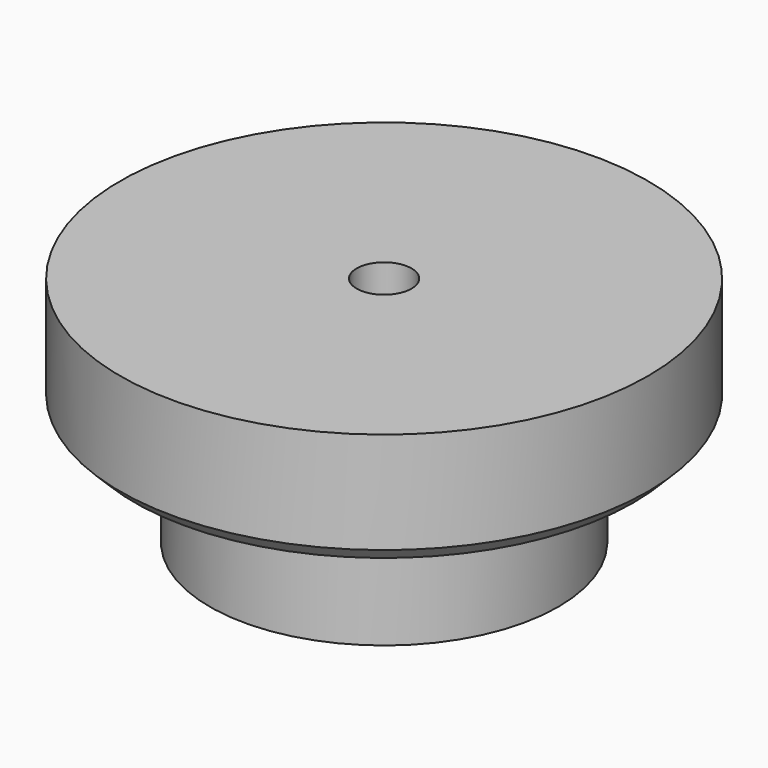
from build123d import *

# Parameters (mm, degrees)
F3_D     = 2.0574
F5_D     = 3
F5_DEPTH = 19.05
F5_TIP   = 0.9012909285
F6_SIZE  = 0.79375


with BuildPart() as f1:
    # F0 (on Front) → F1 (revolve)
    with BuildSketch(Plane.XZ):
        Polygon((14.4272, 0), (0, 0), (0, -12.7), (9.525, -12.7), (9.525, -6.35), (14.4272, -6.35), align=None)
    revolve(axis=Axis((0, 0, -6.35), (0, 0, 1)))

    # F3 (through all)
    with Locations(Plane.XY):
        with Locations((0, 0)):
            Hole(F3_D / 2)

    # F5
    with Locations(Plane(origin=(0, 0, -12.7), x_dir=(1, 0, 0), z_dir=(0, 0, -1))):
        with Locations((0, 0)):
            Hole(F5_D / 2, depth=F5_DEPTH)
            with Locations((0, 0, -(F5_DEPTH + F5_TIP / 2))):  # 118° drill point
                Cone(0, F5_D / 2, F5_TIP, mode=Mode.SUBTRACT)

    # F6
    f6_edges = [f1.edges().sort_by_distance(p)[0] for p in [
        (-14.4272, 0, -6.35),
    ]]
    chamfer(f6_edges, length=F6_SIZE)


solid = f1.part
